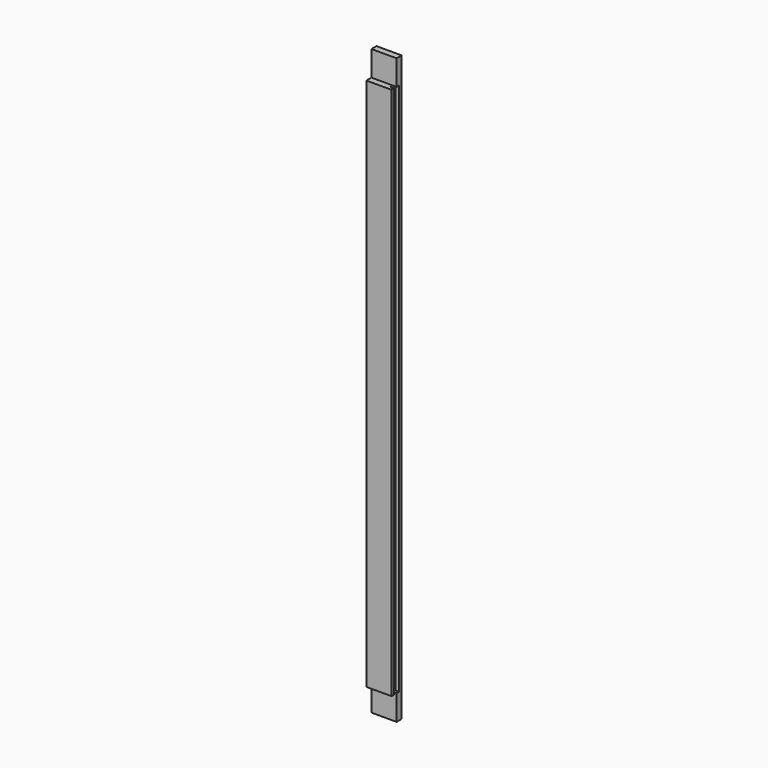
from build123d import *

# Parameters (mm, degrees)
F1_DEPTH = 80
F3_DEPTH = 12


with BuildPart() as f1:
    # F0 (on Right) → F1 (new body)
    with BuildSketch(Plane.YZ):
        Polygon((20, 86.632449), (20, 6.632449), (40, 6.632449), (40, 1861.632449), (20, 1861.632449), (20, 1781.632449), (0, 1781.632449), (0, 86.632449), align=None)
    extrude(amount=F1_DEPTH)

    # F2 (on face) → F3 (cut)
    with BuildSketch(Plane.YZ.offset(80)):
        Polygon((20, 1781.632449), (10, 1781.632449), (10, 86.632449), (20, 86.632449), (30, 86.632449), (30, 1781.632449), align=None)
    extrude(amount=-F3_DEPTH, mode=Mode.SUBTRACT)


solid = f1.part
